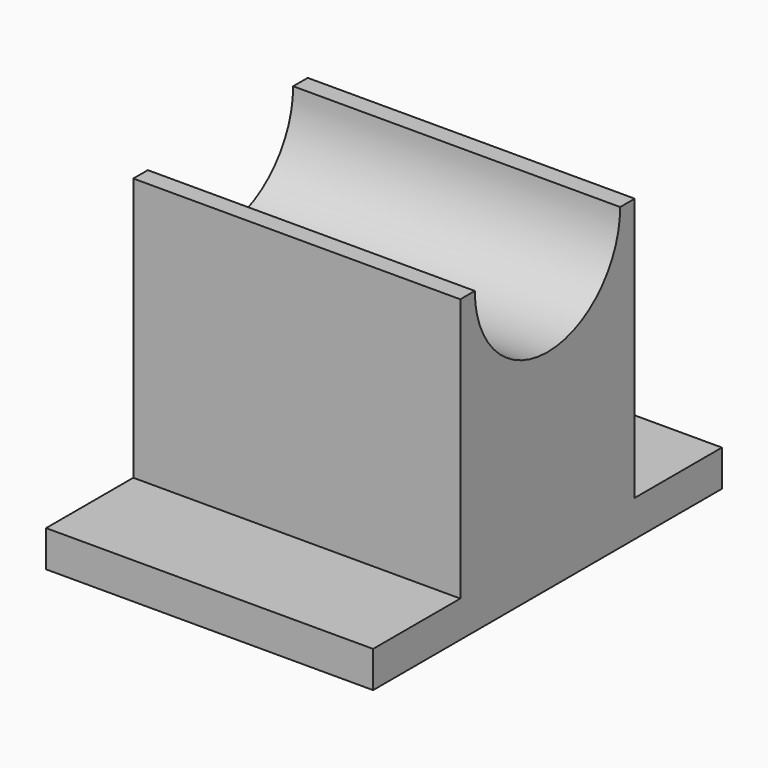
from build123d import *

# Parameters (mm, degrees)
F1_DEPTH = 114.3


with BuildPart() as f1:
    # F0 (on Right) → F1 (new body)
    with BuildSketch(Plane.YZ):
        with BuildLine():
            Line((0, 12.7), (0, 0))
            Line((0, 0), (152.4, 0))
            Line((152.4, 0), (152.4, 12.7))
            Line((152.4, 12.7), (114.3, 12.7))
            Line((114.3, 12.7), (114.3, 104.775))
            Line((114.3, 104.775), (107.95, 104.775))
            ThreePointArc((107.95, 104.775), (76.2, 73.025), (44.45, 104.775))
            Line((44.45, 104.775), (38.1, 104.775))
            Line((38.1, 104.775), (38.1, 12.7))
            Line((38.1, 12.7), (0, 12.7))
        make_face()
    extrude(amount=F1_DEPTH)


solid = f1.part
